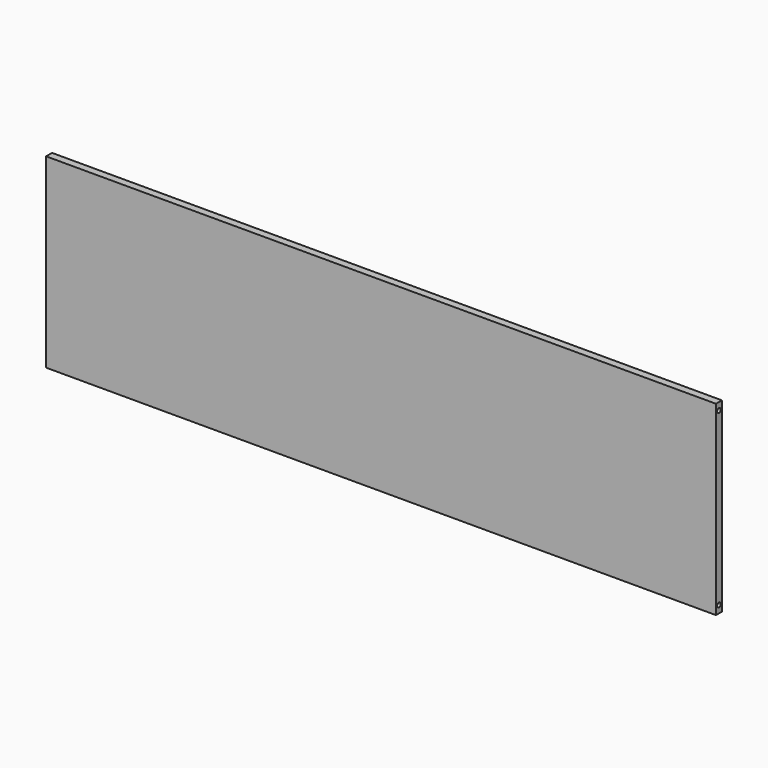
from build123d import *

# Parameters (mm, degrees)
F0_W     = 10
F0_H     = 250
F1_DEPTH = 900
F2_R     = 3
F3_DEPTH = 12
F4_R     = 3
F5_DEPTH = 12


with BuildPart() as f1:
    # F0 (on Right) → F1 (new body)
    with BuildSketch(Plane.YZ):
        with Locations((5, 125)):
            Rectangle(F0_W, F0_H)
    extrude(amount=F1_DEPTH)

    # F2 (on face) → F3 (cut)
    with BuildSketch(Plane.YZ.offset(900)):
        with Locations((5, 240)):
            Circle(F2_R)
        with Locations((5, 10)):
            Circle(F2_R)
    extrude(amount=-F3_DEPTH, mode=Mode.SUBTRACT)

    # F4 (on face) → F5 (cut)
    with BuildSketch(Plane(origin=(0, 0, 0), x_dir=(0, -1, 0), z_dir=(-1, 0, 0))):
        with Locations((-5, 240)):
            Circle(F4_R)
        with Locations((-5, 10)):
            Circle(F4_R)
    extrude(amount=-F5_DEPTH, mode=Mode.SUBTRACT)


solid = f1.part
